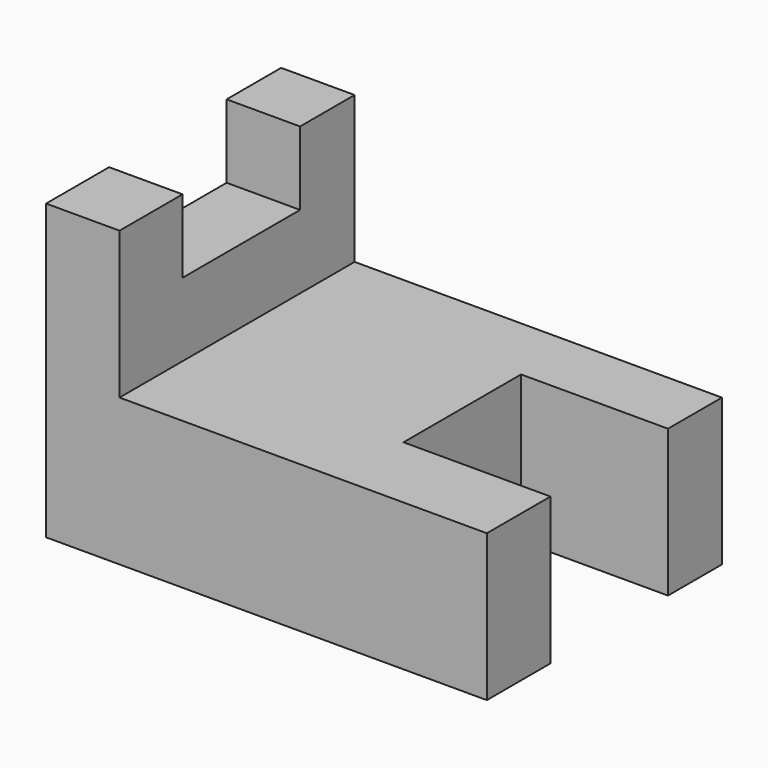
from build123d import *

# Parameters (mm, degrees)
F1_DEPTH = 25.4
F2_W     = 12.7
F2_H     = 6.35
F3_DEPTH = 6.35
F4_W     = 12.7
F4_H     = 12.7
F5_DEPTH = 12.7


with BuildPart() as f1:
    # F0 (on Front) → F1 (new body)
    with BuildSketch(Plane.XZ):
        Polygon((0, 25.4), (0, 0), (38.1, 0), (38.1, 12.7), (6.35, 12.7), (6.35, 25.4), align=None)
    extrude(amount=F1_DEPTH)

    # F2 (on face) → F3 (cut)
    with BuildSketch(Plane.YZ.offset(6.35)):
        with Locations((-12.242402, 22.225)):
            Rectangle(F2_W, F2_H)
    extrude(amount=-F3_DEPTH, mode=Mode.SUBTRACT)

    # F4 (on face) → F5 (cut)
    with BuildSketch(Plane.YZ.offset(38.1)):
        with Locations((-12.176489, 6.35)):
            Rectangle(F4_W, F4_H)
    extrude(amount=-F5_DEPTH, mode=Mode.SUBTRACT)


solid = f1.part
